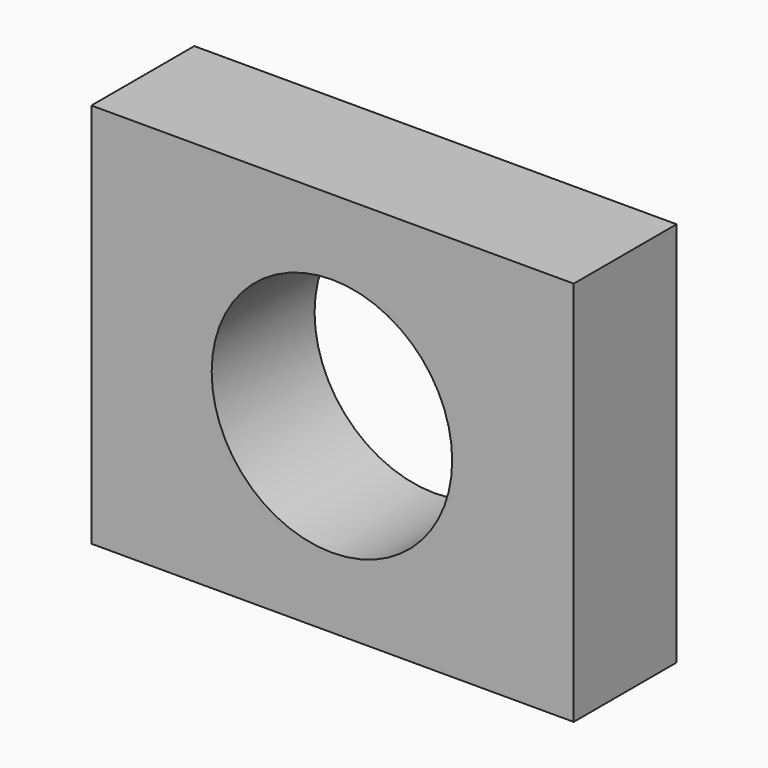
from build123d import *

# Parameters (mm, degrees)
F0_W     = 95.25
F0_H     = 76.2
F0_R     = 23.749
F1_DEPTH = 25.4
F2_DEPTH = 25.4


with BuildPart() as f1:
    # F0 (on Front) → F1 (new body)
    with BuildSketch(Plane.XZ):
        with Locations((10.760576, 0.456677)):
            Rectangle(F0_W, F0_H)
        with Locations((10.63576, 0)):
            Circle(F0_R, mode=Mode.SUBTRACT)
    extrude(amount=F1_DEPTH)

    # F0 (on Front) → F2 (cut)
    with BuildSketch(Plane.XZ):
        with Locations((10.760576, 0.456677)):
            Rectangle(F0_W, F0_H)
        with Locations((10.63576, 0)):
            Circle(F0_R, mode=Mode.SUBTRACT)
    extrude(amount=-F2_DEPTH, mode=Mode.SUBTRACT)


solid = f1.part
